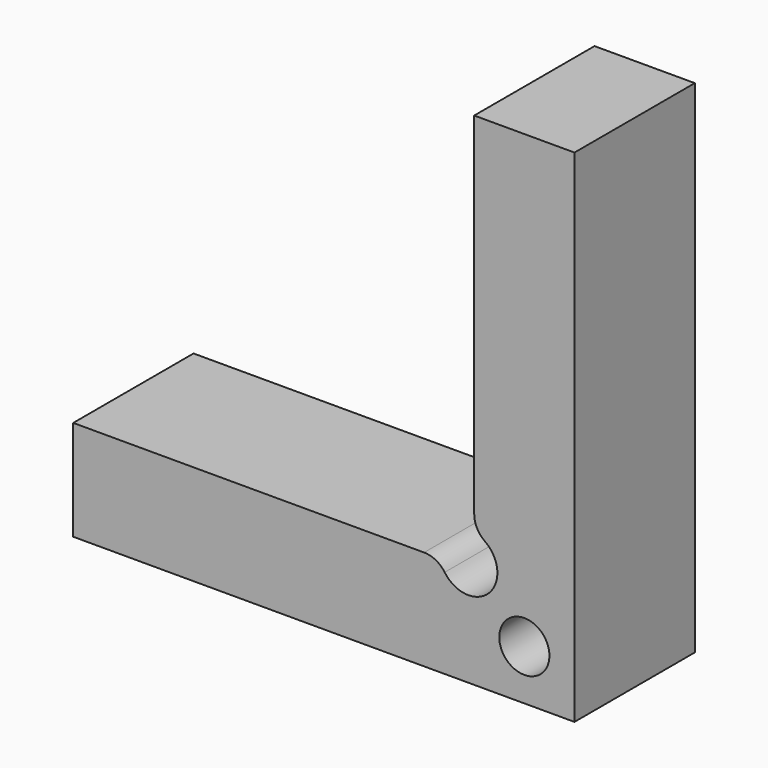
from build123d import *

# Parameters (mm, degrees)
F0_R     = 2.5
F1_DEPTH = 15
F2_R     = 5
F4_DEPTH = 25


with BuildPart() as f1:
    # F0 (on Front) → F1 (new body)
    with BuildSketch(Plane.XZ):
        Polygon((5, 45), (-5, 45), (-5, 5), (-45, 5), (-45, -5), (5, -5), align=None)
        Circle(F0_R, mode=Mode.SUBTRACT)
    extrude(amount=F1_DEPTH)

    # F2
    f2_edges = [f1.edges().sort_by_distance(p)[0] for p in [
        (-5, -7.5, 5),
    ]]
    fillet(f2_edges, radius=F2_R)

    # F3 (on Front) → F4 (cut)
    with BuildSketch(Plane.XZ):
        with BuildLine():
            ThreePointArc((-10, 5), (-8.842421, 4.715854), (-7.947978, 3.928008))
            ThreePointArc((-7.947978, 3.928008), (-3.535534, 3.535534), (-3.928008, 7.947978))
            ThreePointArc((-3.928008, 7.947978), (-4.715854, 8.842421), (-5, 10))
            ThreePointArc((-5, 10), (-6.464466, 6.464466), (-10, 5))
        make_face()
    extrude(amount=F4_DEPTH, mode=Mode.SUBTRACT)


solid = f1.part
